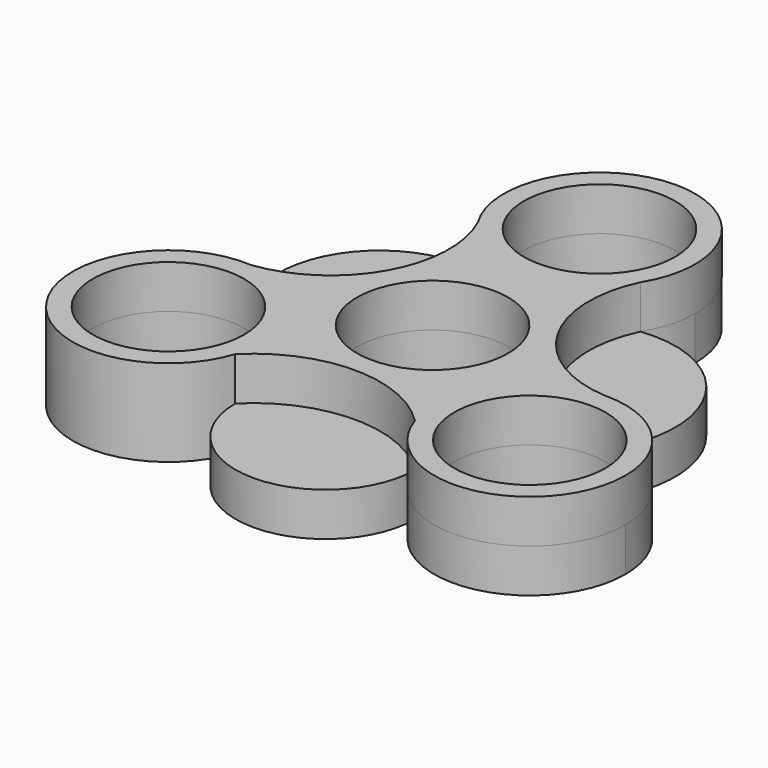
from build123d import *

# Parameters (mm, degrees)
F0_R       = 13.97
F0_R_2     = 11.049
F1_DEPTH   = 6.35
F2_R       = 11.049
F3_DEPTH   = 6.35
F4_DEPTH   = 6.35
F1_FACE_R  = 11.049
F1_FACE1_R = 11.049
F5_DEPTH   = 6.35
F6_DEPTH   = 25.4


with BuildPart() as f1:
    # F0 (on Top) → F1 (new body)
    with BuildSketch(Plane.XY):
        with BuildLine():
            ThreePointArc((11.8822308851, 23.133334825), (0, 16.51), (-11.8822308851, 23.133334825))
            ThreePointArc((-11.8822308851, 23.133334825), (-12.4666938835, 7.4417065656), (-25.5122345043, -1.2980110694))
            ThreePointArc((-25.5122345043, -1.2980110694), (-16.2103497858, -5.6794469472), (-12.4264543073, -15.24))
            ThreePointArc((-12.4264543073, -15.24), (-12.6043267068, -17.4621872669), (-13.1334144003, -19.627786734))
            ThreePointArc((-13.1334144003, -19.627786734), (0.0089857965, -14.1771556489), (13.141390917, -19.6518243979))
            ThreePointArc((13.141390917, -19.6518243979), (15.0105571103, -7.1454187867), (26.2086928391, -1.2712618454))
            ThreePointArc((26.2086928391, -1.2712618454), (12.551407877, 7.1187703581), (11.8822308851, 23.133334825))
        make_face()
        Circle(F0_R, mode=Mode.SUBTRACT)
        Circle(F0_R)
        Circle(F0_R_2, mode=Mode.SUBTRACT)
        with BuildLine():
            ThreePointArc((11.8822308851, 23.133334825), (13.4379251647, 26.6612217572), (13.97, 30.48))
            ThreePointArc((13.97, 30.48), (-3.8187782428, 43.9179251647), (-11.8822308851, 23.133334825))
            ThreePointArc((-11.8822308851, 23.133334825), (0, 16.51), (11.8822308851, 23.133334825))
        make_face()
        with Locations((0, 30.48)):
            Circle(F0_R_2, mode=Mode.SUBTRACT)
        with BuildLine():
            ThreePointArc((-12.4264543073, -15.24), (-16.2103497858, -5.6794469472), (-25.5122345043, -1.2980110694))
            ThreePointArc((-25.5122345043, -1.2980110694), (-37.9736477628, -23.0585351374), (-13.1334144003, -19.627786734))
            ThreePointArc((-13.1334144003, -19.627786734), (-12.6043267068, -17.4621872669), (-12.4264543073, -15.24))
        make_face()
        with Locations((-26.3964543073, -15.24)):
            Circle(F0_R_2, mode=Mode.SUBTRACT)
        with BuildLine():
            ThreePointArc((27.3639044924, -1.3035391817), (26.786025252, -1.2971860413), (26.2086928391, -1.2712618454))
            ThreePointArc((26.2086928391, -1.2712618454), (15.0105571103, -7.1454187867), (13.141390917, -19.6518243979))
            ThreePointArc((13.141390917, -19.6518243979), (28.6311427014, -29.0301076059), (40.3664543073, -15.24))
            ThreePointArc((40.3664543073, -15.24), (36.6110560883, -5.7098997667), (27.3639044924, -1.3035391817))
        make_face()
        with Locations((26.3964543073, -15.24)):
            Circle(F0_R_2, mode=Mode.SUBTRACT)
        with Locations((26.3964543073, -15.24)):
            Circle(F0_R_2)
        Circle(F0_R_2)
        with Locations((0, 30.48)):
            Circle(F0_R_2)
        with Locations((-26.3964543073, -15.24)):
            Circle(F0_R_2)
        with BuildLine():
            ThreePointArc((27.3639044924, -1.3035391817), (26.7866325748, -1.275449849), (26.2086928391, -1.2712618454))
            ThreePointArc((26.2086928391, -1.2712618454), (26.786025252, -1.2971860413), (27.3639044924, -1.3035391817))
        make_face()
    extrude(amount=F1_DEPTH)

    # F2 (on face) → F3 (cut)
    with BuildSketch(Plane.XY.offset(6.35)):
        with Locations((-26.3964543073, -15.24)):
            Circle(F2_R)
        with Locations((0, 30.48)):
            Circle(F2_R)
        with Locations((26.3964543073, -15.24)):
            Circle(F2_R)
    extrude(amount=-F3_DEPTH, mode=Mode.SUBTRACT)

    # F2 (on face) → F4 (cut)
    with BuildSketch(Plane.XY.offset(6.35)):
        Circle(F2_R)
    extrude(amount=-F4_DEPTH, mode=Mode.SUBTRACT)

    # F0 (on Top) + F1_face (on face) + F1_face1 (on face) → F5 (join)
    with BuildSketch(Plane.XY):
        with BuildLine():
            ThreePointArc((11.8822308851, 23.133334825), (0, 16.51), (-11.8822308851, 23.133334825))
            ThreePointArc((-11.8822308851, 23.133334825), (-12.4666938835, 7.4417065656), (-25.5122345043, -1.2980110694))
            ThreePointArc((-25.5122345043, -1.2980110694), (-16.2103497858, -5.6794469472), (-12.4264543073, -15.24))
            ThreePointArc((-12.4264543073, -15.24), (-12.6043267068, -17.4621872669), (-13.1334144003, -19.627786734))
            ThreePointArc((-13.1334144003, -19.627786734), (0.0089857965, -14.1771556489), (13.141390917, -19.6518243979))
            ThreePointArc((13.141390917, -19.6518243979), (15.0105571103, -7.1454187867), (26.2086928391, -1.2712618454))
            ThreePointArc((26.2086928391, -1.2712618454), (12.551407877, 7.1187703581), (11.8822308851, 23.133334825))
        make_face()
        Circle(F0_R, mode=Mode.SUBTRACT)
        with BuildLine():
            ThreePointArc((11.8822308851, 23.133334825), (13.4379251647, 26.6612217572), (13.97, 30.48))
            ThreePointArc((13.97, 30.48), (-3.8187782428, 43.9179251647), (-11.8822308851, 23.133334825))
            ThreePointArc((-11.8822308851, 23.133334825), (0, 16.51), (11.8822308851, 23.133334825))
        make_face()
        with Locations((0, 30.48)):
            Circle(F0_R_2, mode=Mode.SUBTRACT)
        Circle(F0_R)
        Circle(F0_R_2, mode=Mode.SUBTRACT)
        with BuildLine():
            ThreePointArc((-12.4264543073, -15.24), (-16.2103497858, -5.6794469472), (-25.5122345043, -1.2980110694))
            ThreePointArc((-25.5122345043, -1.2980110694), (-37.9736477628, -23.0585351374), (-13.1334144003, -19.627786734))
            ThreePointArc((-13.1334144003, -19.627786734), (-12.6043267068, -17.4621872669), (-12.4264543073, -15.24))
        make_face()
        with Locations((-26.3964543073, -15.24)):
            Circle(F0_R_2, mode=Mode.SUBTRACT)
        with BuildLine():
            ThreePointArc((27.3639044924, -1.3035391817), (26.786025252, -1.2971860413), (26.2086928391, -1.2712618454))
            ThreePointArc((26.2086928391, -1.2712618454), (15.0105571103, -7.1454187867), (13.141390917, -19.6518243979))
            ThreePointArc((13.141390917, -19.6518243979), (28.6311427014, -29.0301076059), (40.3664543073, -15.24))
            ThreePointArc((40.3664543073, -15.24), (36.6110560883, -5.7098997667), (27.3639044924, -1.3035391817))
        make_face()
        with Locations((26.3964543073, -15.24)):
            Circle(F0_R_2, mode=Mode.SUBTRACT)
        with Locations((26.3964543073, -15.24)):
            Circle(F0_R_2)
        with Locations((0, 30.48)):
            Circle(F0_R_2)
        with Locations((-26.3964543073, -15.24)):
            Circle(F0_R_2)
        Circle(F0_R_2)
        with BuildLine():
            ThreePointArc((13.141390917, -19.6518243979), (0.0089857965, -14.1771556489), (-13.1334144003, -19.627786734))
            ThreePointArc((-13.1334144003, -19.627786734), (-0.0079653205, -32.7058821649), (13.141390917, -19.6518243979))
        make_face()
        with BuildLine():
            ThreePointArc((27.3639044924, -1.3035391817), (27.2624668136, 15.7547428761), (11.8822308851, 23.133334825))
            ThreePointArc((11.8822308851, 23.133334825), (12.551407877, 7.1187703581), (26.2086928391, -1.2712618454))
            ThreePointArc((26.2086928391, -1.2712618454), (26.7866325748, -1.275449849), (27.3639044924, -1.3035391817))
        make_face()
        with BuildLine():
            ThreePointArc((-25.5122345043, -1.2980110694), (-12.4666938835, 7.4417065656), (-11.8822308851, 23.133334825))
            ThreePointArc((-11.8822308851, 23.133334825), (-27.5570644864, 15.8604734571), (-25.5122345043, -1.2980110694))
        make_face()
        with BuildLine():
            ThreePointArc((27.3639044924, -1.3035391817), (26.7866325748, -1.275449849), (26.2086928391, -1.2712618454))
            ThreePointArc((26.2086928391, -1.2712618454), (26.786025252, -1.2971860413), (27.3639044924, -1.3035391817))
        make_face()
    with BuildSketch(Plane(origin=(-0.004664817, 0.0791445283, 6.35), x_dir=(1, 0, 0), z_dir=(0, 0, 1))):
        with BuildLine():
            ThreePointArc((13.146055734, -19.7309689261), (37.7870163213, -23.4137257416), (26.213357656, -1.3504063737))
            ThreePointArc((26.213357656, -1.3504063737), (12.556072694, 7.0396258298), (11.886895702, 23.0541902967))
            ThreePointArc((11.886895702, 23.0541902967), (0.004664817, 44.3708554717), (-11.8775660681, 23.0541902967))
            ThreePointArc((-11.8775660681, 23.0541902967), (-12.4620290666, 7.3625620373), (-25.5075696873, -1.3771555977))
            ThreePointArc((-25.5075696873, -1.3771555977), (-37.9689829458, -23.1376796657), (-13.1287495833, -19.7069312623))
            ThreePointArc((-13.1287495833, -19.7069312623), (0.0136506135, -14.2563001772), (13.146055734, -19.7309689261))
        make_face()
        with Locations((-26.3917894904, -15.3191445283)):
            Circle(F1_FACE_R, mode=Mode.SUBTRACT)
        with Locations((26.4011191243, -15.3191445283)):
            Circle(F1_FACE_R, mode=Mode.SUBTRACT)
        with Locations((0.004664817, -0.0791445283)):
            Circle(F1_FACE_R, mode=Mode.SUBTRACT)
        with Locations((0.004664817, 30.4008554717)):
            Circle(F1_FACE_R, mode=Mode.SUBTRACT)
    with BuildSketch(Plane(origin=(-0.0103051715, 0.1748402862, 0), x_dir=(1, 0, 0), z_dir=(0, 0, -1))):
        with BuildLine():
            ThreePointArc((26.2189980105, 1.4461021316), (37.7926566758, 23.5094214995), (13.1516960884, 19.8266646841))
            ThreePointArc((13.1516960884, 19.8266646841), (0.019290968, 14.3519959351), (-13.1231092288, 19.8026270202))
            ThreePointArc((-13.1231092288, 19.8026270202), (-37.9633425914, 23.2333754236), (-25.5019293328, 1.4728513557))
            ThreePointArc((-25.5019293328, 1.4728513557), (-12.4563887121, -7.2668662794), (-11.8719257136, -22.9584945388))
            ThreePointArc((-11.8719257136, -22.9584945388), (0.0103051715, -44.2751597138), (11.8925360565, -22.9584945388))
            ThreePointArc((11.8925360565, -22.9584945388), (12.5617130485, -6.9439300719), (26.2189980105, 1.4461021316))
        make_face()
        with Locations((-26.3861491359, 15.4148402862)):
            Circle(F1_FACE1_R, mode=Mode.SUBTRACT)
        with Locations((26.4067594788, 15.4148402862)):
            Circle(F1_FACE1_R, mode=Mode.SUBTRACT)
        with Locations((0.0103051715, 0.1748402862)):
            Circle(F1_FACE1_R, mode=Mode.SUBTRACT)
        with Locations((0.0103051715, -30.3051597138)):
            Circle(F1_FACE1_R, mode=Mode.SUBTRACT)
    extrude(amount=F5_DEPTH, dir=(0, 0, 1))

    # F2 (on face) → F6 (cut)
    with BuildSketch(Plane.XY.offset(6.35)):
        with Locations((-26.3964543073, -15.24)):
            Circle(F2_R)
        Circle(F2_R)
        with Locations((0, 30.48)):
            Circle(F2_R)
        with Locations((26.3964543073, -15.24)):
            Circle(F2_R)
    extrude(amount=-F6_DEPTH, mode=Mode.SUBTRACT)


solid = f1.part
